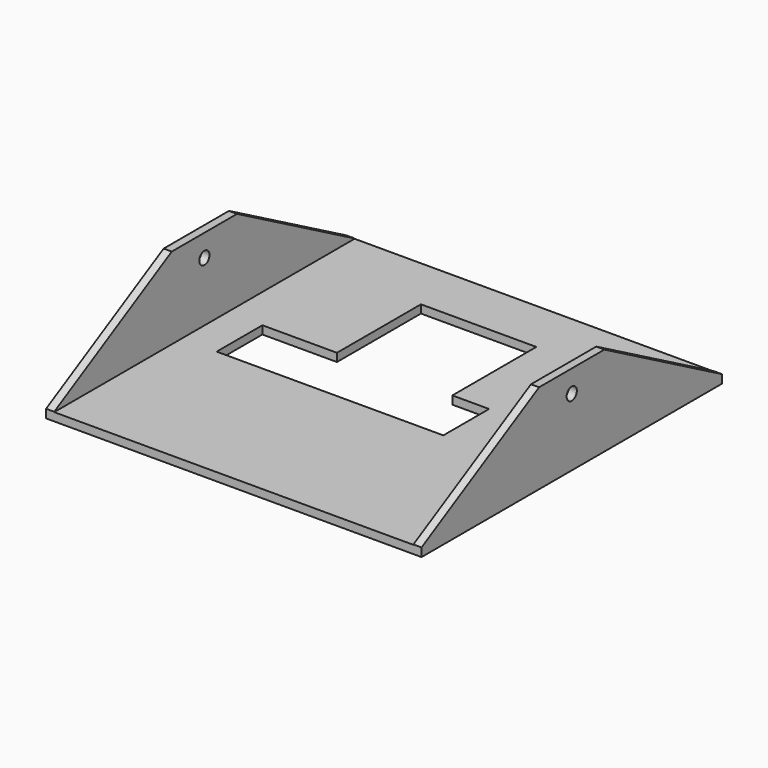
from build123d import *

# Parameters (mm, degrees)
F0_W      = 116.84
F0_H      = 116.840008
F1_DEPTH  = 2.54
F3_DEPTH  = 25.4
F5_DEPTH  = 25.4
F6_R      = 1.976826
F7_DEPTH  = 141.732
F9_DEPTH  = 149.86
F11_DEPTH = 25.4
F10_W     = 23.206993
F10_H     = 32.671138
F12_DEPTH = 25.4


with BuildPart() as f1:
    # F0 (on Top) → F1 (new body)
    with BuildSketch(Plane.XY):
        Rectangle(F0_W, F0_H)
    extrude(amount=F1_DEPTH)

    # F2 (on face) → F3 (join)
    with BuildSketch(Plane.XY.offset(2.54)):
        Polygon((-55.8916, -58.420004), (-55.8916, 0), (-55.8916, 58.420004), (-58.42, 58.420004), (-58.42, -58.420004), align=None)
        Polygon((58.42, 58.420004), (55.886142, 58.420004), (55.886142, 0), (55.886142, -58.420004), (58.42, -58.420004), align=None)
    extrude(amount=F3_DEPTH)

    # F4 (on face) → F5 (cut)
    with BuildSketch(Plane.XY.offset(2.54)):
        Polygon((14.150873, 8.89), (14.150873, 0), (14.150873, -8.89), (25.580873, -8.89), (25.580873, 8.89), align=None)
    extrude(amount=-F5_DEPTH, mode=Mode.SUBTRACT)

    # F6 (on face) → F7 (cut)
    with BuildSketch(Plane.YZ.offset(58.42)):
        with Locations((0, 21.034185)):
            Circle(F6_R)
    extrude(amount=-F7_DEPTH, mode=Mode.SUBTRACT)

    # F8 (on face) → F9 (cut)
    with BuildSketch(Plane.YZ.offset(58.42)):
        Polygon((-58.420004, 2.648506), (-12.702574, 27.94), (-58.420004, 27.94), align=None)
        Polygon((58.420004, 27.94), (12.699459, 27.94), (58.420004, 2.637995), align=None)
    extrude(amount=-F9_DEPTH, mode=Mode.SUBTRACT)

    # F10 (on face) → F11 (cut)
    with BuildSketch(Plane.XY.offset(2.54)):
        Polygon((-44.958197, -8.89), (14.150873, -8.89), (14.150873, 8.89), (-9.05612, 8.89), (-21.754064, 8.89), (-44.958197, 8.89), align=None)
        Polygon((-21.754064, 8.89), (-9.05612, 8.89), (-9.05612, 41.561138), (-15.403662, 41.561138), (-21.754064, 41.561138), align=None)
    extrude(amount=-F11_DEPTH, mode=Mode.SUBTRACT)

    # F10 (on face) → F12 (cut)
    with BuildSketch(Plane.XY.offset(2.54)):
        with Locations((2.547376, 25.225569)):
            Rectangle(F10_W, F10_H)
    extrude(amount=-F12_DEPTH, mode=Mode.SUBTRACT)


solid = f1.part
